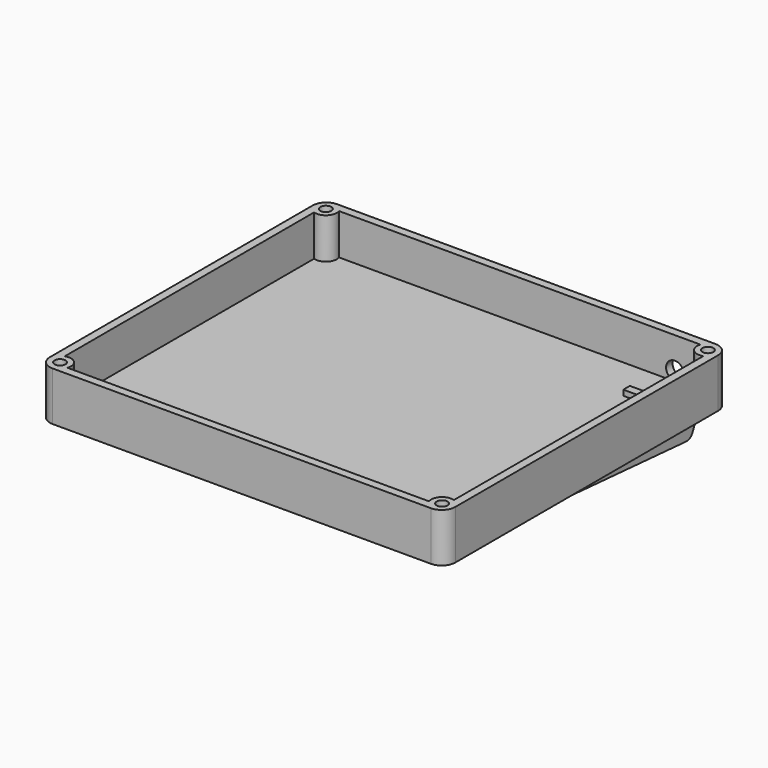
from build123d import *

# Parameters (mm, degrees)
LEFT_BODY_PAD_DEPTH            = 18
LEFT_BODY_CAVITY_POCKET_DEPTH  = 15
LEFT_BODY_BOSSES_R             = 4
LEFT_BODY_BOSS_PAD_DEPTH       = 15
LEFT_BODY_INSERT_HOLES_R       = 2
LEFT_BODY_INSERT_POCKETS_DEPTH = 7
LEFT_BODY_REST_PAD_DEPTH       = 68.531175
LEFT_BODY_REST_FILLET_R        = 3
LEFT_JACK_HOLE_R               = 3.25
LEFT_JACK_HOLE_POCKET_DEPTH    = 3.2
LEFT_JACK_STOP_W               = 12
LEFT_JACK_STOP_H               = 3
LEFT_JACK_STOP_PAD_DEPTH       = 2


with BuildPart() as part:
    # Left_Body_Outline → Left_Body_Pad (new body)
    with BuildSketch(Plane.XY.offset(-18)):
        with BuildLine():
            Line((-0.38035, -5.791), (138.682, -5.791))
            ThreePointArc((138.682, -5.791), (142.217534, -4.326534), (143.682, -0.791))
            Line((143.682, -0.791), (143.682, 119.971))
            ThreePointArc((143.682, 119.971), (142.217534, 123.506534), (138.682, 124.971))
            Line((138.682, 124.971), (-0.38035, 124.971))
            ThreePointArc((-0.38035, 124.971), (-3.915884, 123.506534), (-5.38035, 119.971))
            Line((-5.38035, 119.971), (-5.38035, -0.791))
            ThreePointArc((-5.38035, -0.791), (-3.915884, -4.326534), (-0.38035, -5.791))
        make_face()
    extrude(amount=LEFT_BODY_PAD_DEPTH)

    # Left_Body_Cavity → Left_Body_Cavity_Pocket (cut)
    with BuildSketch(Plane.XY):
        with BuildLine():
            Line((-0.38035, -2.791), (138.682, -2.791))
            ThreePointArc((138.682, -2.791), (140.096214, -2.205214), (140.682, -0.791))
            Line((140.682, -0.791), (140.682, 119.971))
            ThreePointArc((140.682, 119.971), (140.096214, 121.385214), (138.682, 121.971))
            Line((138.682, 121.971), (-0.38035, 121.971))
            ThreePointArc((-0.38035, 121.971), (-1.794564, 121.385214), (-2.38035, 119.971))
            Line((-2.38035, 119.971), (-2.38035, -0.791))
            ThreePointArc((-2.38035, -0.791), (-1.794564, -2.205214), (-0.38035, -2.791))
        make_face()
    extrude(amount=-LEFT_BODY_CAVITY_POCKET_DEPTH, mode=Mode.SUBTRACT)

    # Left_Body_Bosses → Left_Body_Boss_Pad (join)
    with BuildSketch(Plane.XY.offset(-15)):
        with Locations((-1.08035, -1.491)):
            Circle(LEFT_BODY_BOSSES_R)
        with Locations((139.382, -1.491)):
            Circle(LEFT_BODY_BOSSES_R)
        with Locations((-1.08035, 120.671)):
            Circle(LEFT_BODY_BOSSES_R)
        with Locations((139.382, 120.671)):
            Circle(LEFT_BODY_BOSSES_R)
    extrude(amount=LEFT_BODY_BOSS_PAD_DEPTH)

    # Left_Body_Insert_Holes → Left_Body_Insert_Pockets (cut)
    with BuildSketch(Plane.XY):
        with Locations((-1.08035, -1.491)):
            Circle(LEFT_BODY_INSERT_HOLES_R)
        with Locations((139.382, -1.491)):
            Circle(LEFT_BODY_INSERT_HOLES_R)
        with Locations((-1.08035, 120.671)):
            Circle(LEFT_BODY_INSERT_HOLES_R)
        with Locations((139.382, 120.671)):
            Circle(LEFT_BODY_INSERT_HOLES_R)
    extrude(amount=-LEFT_BODY_INSERT_POCKETS_DEPTH, mode=Mode.SUBTRACT)

    # Left_Body_Rest → Left_Body_Rest_Pad (join, symmetric)
    with BuildSketch(Plane.YZ.offset(69.150825)):
        Polygon((-5.791, -18), (118.971, -18), (114.852748, -27.112629), align=None)
    extrude(amount=LEFT_BODY_REST_PAD_DEPTH, both=True)

    # Left_Body_Rest_Fillet
    left_body_rest_fillet_edges = [part.edges().sort_by_distance(p)[0] for p in [
        (69.150825, 114.852748, -27.112629),
    ]]
    fillet(left_body_rest_fillet_edges, radius=LEFT_BODY_REST_FILLET_R)

    # Left_Jack_Hole → Left_Jack_Hole_Pocket (cut)
    with BuildSketch(Plane.XZ.offset(-124.971)):
        with Locations((126.182, -11.5)):
            Circle(LEFT_JACK_HOLE_R)
    extrude(amount=LEFT_JACK_HOLE_POCKET_DEPTH, mode=Mode.SUBTRACT)

    # Left_Jack_Stop → Left_Jack_Stop_Pad (join)
    with BuildSketch(Plane.XY.offset(-15)):
        with Locations((126.182, 107.271)):
            Rectangle(LEFT_JACK_STOP_W, LEFT_JACK_STOP_H)
    extrude(amount=LEFT_JACK_STOP_PAD_DEPTH)


solid = part.part
